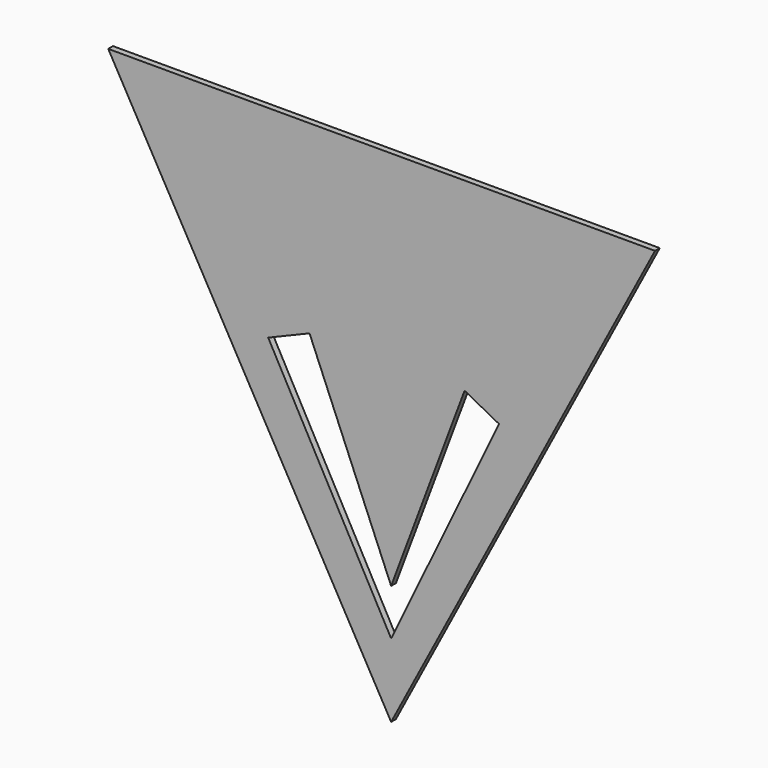
from build123d import *

# Parameters (mm, degrees)
F1_DEPTH = 0.508


with BuildPart() as f1:
    # F0 (on Front) → F1 (new body)
    with BuildSketch(Plane.XZ):
        Polygon((22.398183, 21.82091), (-24.014546, 21.82091), (0, -20.666365), align=None)
        Polygon((9.164905, 4.574282), (0, -14.431817), (-10.435999, 4.657122), (-6.927273, 6.119091), (0, -10.506364), (6.234545, 6.119091), align=None, mode=Mode.SUBTRACT)
    extrude(amount=-F1_DEPTH)


solid = f1.part
